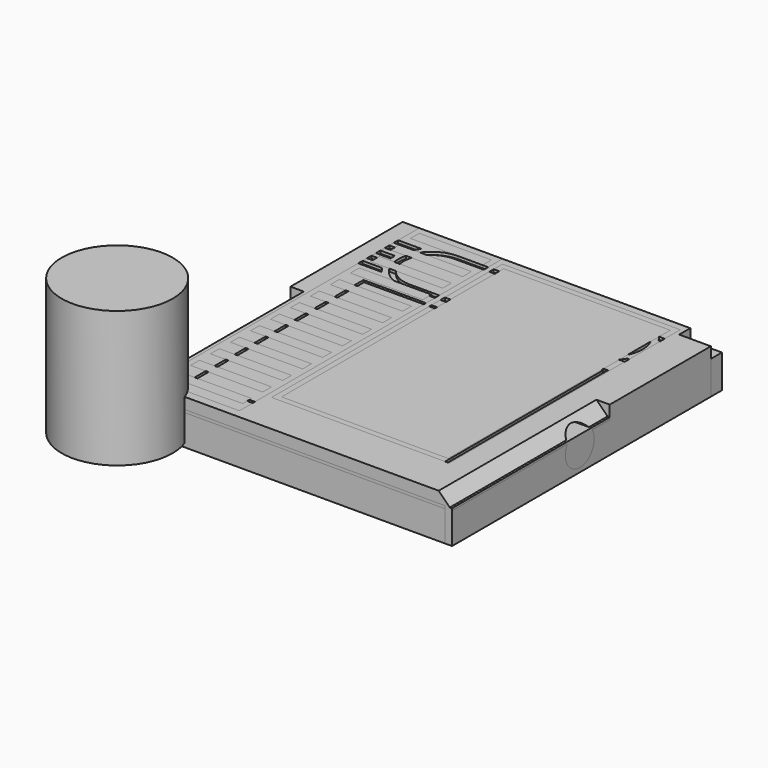
from build123d import *

# Parameters (mm, degrees)
BOX_W             = 57.5
BOX_H             = 60.75
BOX_DEPTH         = 6
BOX057_W          = 31
BOX057_H          = 9
BOX057_DEPTH      = 1
BOX058_W          = 3.25
BOX058_H          = 6.5
BOX058_DEPTH      = 1
CYLINDER005_R     = 10
CYLINDER005_DEPTH = 24.5
BOX066_W          = 13.5
BOX066_H          = 1.5
BOX066_DEPTH      = 5
BOX065_W          = 43
BOX065_H          = 38
BOX065_DEPTH      = 0.5
BOX068_W          = 44
BOX068_H          = 39
BOX068_DEPTH      = 0.5
CYLINDER006_R     = 3.25
CYLINDER006_DEPTH = 3.5
BOX070_W          = 57.5
BOX070_H          = 35.5
BOX070_DEPTH      = 2.5
CHAMFER001_SIZE   = 2.4
BOX062_W          = 5.7
BOX062_H          = 2.5
BOX062_DEPTH      = 6
BOX064_W          = 5.5
BOX064_H          = 3.5
BOX064_DEPTH      = 6
BOX063_W          = 55
BOX063_H          = 62.75
BOX063_DEPTH      = 5.5
BOX061_W          = 57.5
BOX061_H          = 60.75
BOX061_DEPTH      = 5.5
CYLINDER011_R     = 5
CYLINDER011_DEPTH = 0.5
BOX069_W          = 32
BOX069_H          = 10
BOX069_DEPTH      = 0.5
CYLINDER010_R     = 5
CYLINDER010_DEPTH = 0.5
BOX071_W          = 32
BOX071_H          = 12
BOX071_DEPTH      = 1
CYLINDER007_R     = 6
CYLINDER007_DEPTH = 1
CYLINDER012_R     = 6
CYLINDER012_DEPTH = 1
CYLINDER008_R     = 7
CYLINDER008_DEPTH = 1
BOX075_W          = 10
BOX075_H          = 1
BOX075_DEPTH      = 1
BOX074_W          = 10
BOX074_H          = 1
BOX074_DEPTH      = 1
BOX073_W          = 10
BOX073_H          = 1
BOX073_DEPTH      = 1
BOX072_W          = 10
BOX072_H          = 1
BOX072_DEPTH      = 1
BOX076_W          = 10
BOX076_H          = 1
BOX076_DEPTH      = 1
CYLINDER009_R     = 7
CYLINDER009_DEPTH = 1
BOX080_W          = 10
BOX080_H          = 1
BOX080_DEPTH      = 1
BOX079_W          = 10
BOX079_H          = 1
BOX079_DEPTH      = 1
BOX078_W          = 10
BOX078_H          = 1
BOX078_DEPTH      = 1
BOX077_W          = 10
BOX077_H          = 1
BOX077_DEPTH      = 1
BOX081_W          = 10
BOX081_H          = 1
BOX081_DEPTH      = 1
BOX082_W          = 10
BOX082_H          = 10
BOX082_DEPTH      = 10
BOX083_W          = 57.5
BOX083_H          = 25.25
BOX083_DEPTH      = 2.5
BOX067_W          = 4
BOX067_H          = 8
BOX067_DEPTH      = 6
CYLINDER013_R     = 3.25
CYLINDER013_DEPTH = 3.5
BOX002_W          = 55
BOX002_H          = 62.8
BOX002_DEPTH      = 6
BOX018_W          = 15
BOX018_H          = 53
BOX018_DEPTH      = 0.5
BOX041_W          = 32
BOX041_H          = 52
BOX041_DEPTH      = 0.5
BOX019_W          = 15
BOX019_H          = 9.25
BOX019_DEPTH      = 1.5
BOX008_W          = 57.5
BOX008_H          = 35.5
BOX008_DEPTH      = 8
CHAMFER_SIZE      = 2.4
BOX029_W          = 17
BOX029_H          = 9.25
BOX029_DEPTH      = 1.5
BOX010_W          = 10
BOX010_H          = 10
BOX010_DEPTH      = 10
BOX007_W          = 57.5
BOX007_H          = 25.25
BOX007_DEPTH      = 8
BOX085_W          = 4
BOX085_H          = 8
BOX085_DEPTH      = 6
BOX084_W          = 14.5
BOX084_H          = 1.5
BOX084_DEPTH      = 5
BOX017_W          = 30
BOX017_H          = 50
BOX017_DEPTH      = 0.5
BOX038_W          = 13
BOX038_H          = 2
BOX038_DEPTH      = 1.5
BOX035_W          = 13
BOX035_H          = 2
BOX035_DEPTH      = 1
BOX034_W          = 13
BOX034_H          = 2
BOX034_DEPTH      = 1
BOX032_W          = 13
BOX032_H          = 2
BOX032_DEPTH      = 1
BOX025_W          = 13
BOX025_H          = 2
BOX025_DEPTH      = 1
BOX022_W          = 13
BOX022_H          = 2
BOX022_DEPTH      = 1
BOX021_W          = 13
BOX021_H          = 2
BOX021_DEPTH      = 1
BOX024_W          = 13
BOX024_H          = 2
BOX024_DEPTH      = 1
BOX031_W          = 13
BOX031_H          = 2
BOX031_DEPTH      = 1
BOX023_W          = 13
BOX023_H          = 2
BOX023_DEPTH      = 1
BOX030_W          = 13
BOX030_H          = 2
BOX030_DEPTH      = 1
BOX020_W          = 13
BOX020_H          = 2
BOX020_DEPTH      = 1
BOX040_W          = 13
BOX040_H          = 2
BOX040_DEPTH      = 1.5
BOX001_W          = 5.7
BOX001_H          = 2.5
BOX001_DEPTH      = 6
BOX003_W          = 6.2
BOX003_H          = 3.5
BOX003_DEPTH      = 6


with BuildPart() as cube_outer_base:
    # Box → Box (new body)
    with BuildSketch(Plane(origin=(0, 3.5, -0.7), x_dir=(1, 0, 0), z_dir=(0, 0, 1))):
        with Locations((28.75, 30.375)):
            Rectangle(BOX_W, BOX_H)
    extrude(amount=BOX_DEPTH)


with BuildPart() as cube:
    # Box057 → Box057 (new body)
    with BuildSketch(Plane(origin=(20, 54.5, 5.3), x_dir=(1, 0, 0), z_dir=(0, 0, 1))):
        with Locations((15.5, 4.5)):
            Rectangle(BOX057_W, BOX057_H)
    extrude(amount=BOX057_DEPTH)


with BuildPart() as fusion023_front_cutter_top:
    # Box058 → Box058 (new body)
    with BuildSketch(Plane(origin=(51, 54.5, 5.3), x_dir=(1, 0, 0), z_dir=(0, 0, 1))):
        with Locations((1.625, 3.25)):
            Rectangle(BOX058_W, BOX058_H)
    extrude(amount=BOX058_DEPTH)

    # Fusion023: union Cube
    add(cube.part)


with BuildPart() as cylinder_conduit_left:
    # Cylinder005 → Cylinder005 (new body)
    with BuildSketch(Plane.XY):
        Circle(CYLINDER005_R)
    extrude(amount=CYLINDER005_DEPTH)


with BuildPart() as cube_sd_card_cover:
    # Box066 → Box066 (new body)
    with BuildSketch(Plane(origin=(19.5, 62.75, -5.7), x_dir=(1, 0, 0), z_dir=(0, 0, 1))):
        with Locations((6.75, 0.75)):
            Rectangle(BOX066_W, BOX066_H)
    extrude(amount=BOX066_DEPTH)


with BuildPart() as box065:
    # Box065 → Box065 (new body)
    with BuildSketch(Plane(origin=(7.25, 8.5, 6.8), x_dir=(1, 0, 0), z_dir=(0, 0, 1))):
        with Locations((21.5, 19)):
            Rectangle(BOX065_W, BOX065_H)
    extrude(amount=BOX065_DEPTH)


with BuildPart() as box068:
    # Box068 → Box068 (new body)
    with BuildSketch(Plane(origin=(6.75, 8, 6.8), x_dir=(1, 0, 0), z_dir=(0, 0, 1))):
        with Locations((22, 19.5)):
            Rectangle(BOX068_W, BOX068_H)
    extrude(amount=BOX068_DEPTH)


with BuildPart() as cylinder_magnet:
    # Cylinder006 → Cylinder006 (new body)
    with BuildSketch(Plane(origin=(54, 32.25, 3.3), x_dir=(0, 0, -1), z_dir=(1, 0, 0))):
        Circle(CYLINDER006_R)
    extrude(amount=CYLINDER006_DEPTH)


with BuildPart() as chamfer001:
    # Box070 → Box070 (new body)
    with BuildSketch(Plane(origin=(0, 3.5, 4.8), x_dir=(1, 0, 0), z_dir=(0, 0, 1))):
        with Locations((28.75, 17.75)):
            Rectangle(BOX070_W, BOX070_H)
    extrude(amount=BOX070_DEPTH)

    # Chamfer001
    chamfer001_edges = [chamfer001.edges().sort_by_distance(p)[0] for p in [
        (0, 21.25, 7.3),
        (57.5, 21.25, 7.3),
    ]]
    chamfer(chamfer001_edges, length=CHAMFER001_SIZE)


with BuildPart() as box062:
    # Box062 → Box062 (new body)
    with BuildSketch(Plane(origin=(51.8, 61.75, -0.7), x_dir=(1, 0, 0), z_dir=(0, 0, 1))):
        with Locations((2.85, 1.25)):
            Rectangle(BOX062_W, BOX062_H)
    extrude(amount=BOX062_DEPTH)


with BuildPart() as box064:
    # Box064 → Box064 (new body)
    with BuildSketch(Plane(origin=(50.8, 60.75, -0.7), x_dir=(1, 0, 0), z_dir=(0, 0, 1))):
        with Locations((2.75, 1.75)):
            Rectangle(BOX064_W, BOX064_H)
    extrude(amount=BOX064_DEPTH)


with BuildPart() as box063:
    # Box063 → Box063 (new body)
    with BuildSketch(Plane(origin=(1.25, 0, -0.7), x_dir=(1, 0, 0), z_dir=(0, 0, 1))):
        with Locations((27.5, 31.375)):
            Rectangle(BOX063_W, BOX063_H)
    extrude(amount=BOX063_DEPTH)


with BuildPart() as cut024:
    # Box061 → Box061 (new body)
    with BuildSketch(Plane(origin=(0, 3.5, -0.7), x_dir=(1, 0, 0), z_dir=(0, 0, 1))):
        with Locations((28.75, 30.375)):
            Rectangle(BOX061_W, BOX061_H)
    extrude(amount=BOX061_DEPTH)

    # Cut030: cut Box063
    add(box063.part, mode=Mode.SUBTRACT)

    # Fusion030: union Box064
    add(box064.part)

    # Cut031: cut Box062
    add(box062.part, mode=Mode.SUBTRACT)


with BuildPart() as cylinder002_right_nintendo_inner:
    # Cylinder011 → Cylinder011 (new body)
    with BuildSketch(Plane(origin=(44.6, 55, 6.8), x_dir=(1, 0, 0), z_dir=(0, 0, 1))):
        Circle(CYLINDER011_R)
    extrude(amount=CYLINDER011_DEPTH)


with BuildPart() as cube_middle_nintendo_inner:
    # Box069 → Box069 (new body)
    with BuildSketch(Plane(origin=(12.6, 50, 6.8), x_dir=(1, 0, 0), z_dir=(0, 0, 1))):
        with Locations((16, 5)):
            Rectangle(BOX069_W, BOX069_H)
    extrude(amount=BOX069_DEPTH)


with BuildPart() as fusion033:
    # Cylinder010 → Cylinder010 (new body)
    with BuildSketch(Plane(origin=(12.6, 55, 6.8), x_dir=(1, 0, 0), z_dir=(0, 0, 1))):
        Circle(CYLINDER010_R)
    extrude(amount=CYLINDER010_DEPTH)

    # Fusion033: union Cylinder002(right_nintendo_inner), Cube(middle_nintendo_inner)
    add(cylinder002_right_nintendo_inner.part)
    add(cube_middle_nintendo_inner.part)


with BuildPart() as cube_middle_nintendo_outer:
    # Box071 → Box071 (new body)
    with BuildSketch(Plane(origin=(12.6, 49, 6.8), x_dir=(1, 0, 0), z_dir=(0, 0, 1))):
        with Locations((16, 6)):
            Rectangle(BOX071_W, BOX071_H)
    extrude(amount=BOX071_DEPTH)


with BuildPart() as cylinder002_right_nintendo_outer:
    # Cylinder007 → Cylinder007 (new body)
    with BuildSketch(Plane(origin=(44.6, 55, 6.8), x_dir=(1, 0, 0), z_dir=(0, 0, 1))):
        Circle(CYLINDER007_R)
    extrude(amount=CYLINDER007_DEPTH)


with BuildPart() as cylinder001_left_nintendo_outer:
    # Cylinder012 → Cylinder012 (new body)
    with BuildSketch(Plane(origin=(12.6, 55, 6.8), x_dir=(1, 0, 0), z_dir=(0, 0, 1))):
        Circle(CYLINDER012_R)
    extrude(amount=CYLINDER012_DEPTH)


with BuildPart() as cylinder001_left_nintendo_fin_cut:
    # Cylinder008 → Cylinder008 (new body)
    with BuildSketch(Plane(origin=(12.6, 55, 6.8), x_dir=(1, 0, 0), z_dir=(0, 0, 1))):
        Circle(CYLINDER008_R)
    extrude(amount=CYLINDER008_DEPTH)


with BuildPart() as box075:
    # Box075 → Box075 (new body)
    with BuildSketch(Plane(origin=(0, 54.5, 6.8), x_dir=(1, 0, 0), z_dir=(0, 0, 1))):
        with Locations((5, 0.5)):
            Rectangle(BOX075_W, BOX075_H)
    extrude(amount=BOX075_DEPTH)


with BuildPart() as box074:
    # Box074 → Box074 (new body)
    with BuildSketch(Plane(origin=(0, 58.5, 6.8), x_dir=(1, 0, 0), z_dir=(0, 0, 1))):
        with Locations((5, 0.5)):
            Rectangle(BOX074_W, BOX074_H)
    extrude(amount=BOX074_DEPTH)


with BuildPart() as box073:
    # Box073 → Box073 (new body)
    with BuildSketch(Plane(origin=(0, 56.5, 6.8), x_dir=(1, 0, 0), z_dir=(0, 0, 1))):
        with Locations((5, 0.5)):
            Rectangle(BOX073_W, BOX073_H)
    extrude(amount=BOX073_DEPTH)


with BuildPart() as box072:
    # Box072 → Box072 (new body)
    with BuildSketch(Plane(origin=(0, 52.5, 6.8), x_dir=(1, 0, 0), z_dir=(0, 0, 1))):
        with Locations((5, 0.5)):
            Rectangle(BOX072_W, BOX072_H)
    extrude(amount=BOX072_DEPTH)


with BuildPart() as cut009:
    # Box076 → Box076 (new body)
    with BuildSketch(Plane(origin=(0, 50.5, 6.8), x_dir=(1, 0, 0), z_dir=(0, 0, 1))):
        with Locations((5, 0.5)):
            Rectangle(BOX076_W, BOX076_H)
    extrude(amount=BOX076_DEPTH)

    # Fusion004: union Box075, Box074, Box073, Box072
    add(box075.part)
    add(box074.part)
    add(box073.part)
    add(box072.part)

    # Cut009: cut Cylinder001(left_nintendo_fin_cut)
    add(cylinder001_left_nintendo_fin_cut.part, mode=Mode.SUBTRACT)


with BuildPart() as cylinder002_right_nintendo_fin_cut:
    # Cylinder009 → Cylinder009 (new body)
    with BuildSketch(Plane(origin=(44.6, 55, 6.8), x_dir=(1, 0, 0), z_dir=(0, 0, 1))):
        Circle(CYLINDER009_R)
    extrude(amount=CYLINDER009_DEPTH)


with BuildPart() as box080:
    # Box080 → Box080 (new body)
    with BuildSketch(Plane(origin=(47.5, 54.5, 6.8), x_dir=(1, 0, 0), z_dir=(0, 0, 1))):
        with Locations((5, 0.5)):
            Rectangle(BOX080_W, BOX080_H)
    extrude(amount=BOX080_DEPTH)


with BuildPart() as box079:
    # Box079 → Box079 (new body)
    with BuildSketch(Plane(origin=(47.5, 52.5, 6.8), x_dir=(1, 0, 0), z_dir=(0, 0, 1))):
        with Locations((5, 0.5)):
            Rectangle(BOX079_W, BOX079_H)
    extrude(amount=BOX079_DEPTH)


with BuildPart() as box078:
    # Box078 → Box078 (new body)
    with BuildSketch(Plane(origin=(47.5, 56.5, 6.8), x_dir=(1, 0, 0), z_dir=(0, 0, 1))):
        with Locations((5, 0.5)):
            Rectangle(BOX078_W, BOX078_H)
    extrude(amount=BOX078_DEPTH)


with BuildPart() as box077:
    # Box077 → Box077 (new body)
    with BuildSketch(Plane(origin=(47.5, 58.5, 6.8), x_dir=(1, 0, 0), z_dir=(0, 0, 1))):
        with Locations((5, 0.5)):
            Rectangle(BOX077_W, BOX077_H)
    extrude(amount=BOX077_DEPTH)


with BuildPart() as cut032:
    # Box081 → Box081 (new body)
    with BuildSketch(Plane(origin=(47.5, 50.5, 6.8), x_dir=(1, 0, 0), z_dir=(0, 0, 1))):
        with Locations((5, 0.5)):
            Rectangle(BOX081_W, BOX081_H)
    extrude(amount=BOX081_DEPTH)

    # Fusion034: union Box080, Box079, Box078, Box077
    add(box080.part)
    add(box079.part)
    add(box078.part)
    add(box077.part)

    # Cut032: cut Cylinder002(right_nintendo_fin_cut)
    add(cylinder002_right_nintendo_fin_cut.part, mode=Mode.SUBTRACT)


with BuildPart() as box082:
    # Box082 → Box082 (new body)
    with BuildSketch(Plane(origin=(51.8, 61.75, 0), x_dir=(1, 0, 0), z_dir=(0, 0, 1))):
        with Locations((5, 5)):
            Rectangle(BOX082_W, BOX082_H)
    extrude(amount=BOX082_DEPTH)


with BuildPart() as cut014:
    # Box083 → Box083 (new body)
    with BuildSketch(Plane(origin=(0, 39, 4.8), x_dir=(1, 0, 0), z_dir=(0, 0, 1))):
        with Locations((28.75, 12.625)):
            Rectangle(BOX083_W, BOX083_H)
    extrude(amount=BOX083_DEPTH)

    # Cut033: cut Box082
    add(box082.part, mode=Mode.SUBTRACT)

    # Cut010: cut Cut032
    add(cut032.part, mode=Mode.SUBTRACT)

    # Cut011: cut Cut009
    add(cut009.part, mode=Mode.SUBTRACT)

    # Cut012: cut Cylinder001(left_nintendo_outer)
    add(cylinder001_left_nintendo_outer.part, mode=Mode.SUBTRACT)

    # Cut013: cut Cylinder002(right_nintendo_outer)
    add(cylinder002_right_nintendo_outer.part, mode=Mode.SUBTRACT)

    # Cut014: cut Cube(middle_nintendo_outer)
    add(cube_middle_nintendo_outer.part, mode=Mode.SUBTRACT)


with BuildPart() as fusion037:
    # Box067 → Box067 (new body)
    with BuildSketch(Plane(origin=(52.25, 28.25, -0.7), x_dir=(1, 0, 0), z_dir=(0, 0, 1))):
        with Locations((2, 4)):
            Rectangle(BOX067_W, BOX067_H)
    extrude(amount=BOX067_DEPTH)

    # Fusion035: union Chamfer001, Cut024, Fusion033, Cut014
    add(chamfer001.part)
    add(cut024.part)
    add(fusion033.part)
    add(cut014.part)

    # Cut034: cut Cylinder(magnet)
    add(cylinder_magnet.part, mode=Mode.SUBTRACT)

    # Cut035: cut Box068
    add(box068.part, mode=Mode.SUBTRACT)

    # Fusion036: union Box065
    add(box065.part)

    # Fusion037: union Cube(sd_card_cover)
    add(cube_sd_card_cover.part)


with BuildPart() as cylinder013:
    # Cylinder013 → Cylinder013 (new body)
    with BuildSketch(Plane(origin=(54, 32.25, 3.3), x_dir=(0, 0, -1), z_dir=(1, 0, 0))):
        Circle(CYLINDER013_R)
    extrude(amount=CYLINDER013_DEPTH)


with BuildPart() as cube_inner_base:
    # Box002 → Box002 (new body)
    with BuildSketch(Plane(origin=(1.25, 0, -0.7), x_dir=(1, 0, 0), z_dir=(0, 0, 1))):
        with Locations((27.5, 31.4)):
            Rectangle(BOX002_W, BOX002_H)
    extrude(amount=BOX002_DEPTH)


with BuildPart() as cube_cube_strips:
    # Box018 → Box018 (new body)
    with BuildSketch(Plane(origin=(3, 5, 6.8), x_dir=(1, 0, 0), z_dir=(0, 0, 1))):
        with Locations((7.5, 26.5)):
            Rectangle(BOX018_W, BOX018_H)
    extrude(amount=BOX018_DEPTH)


with BuildPart() as obj1:
    # Box041 → Box041 (new body)
    with BuildSketch(Plane(origin=(19, 11, 6.8), x_dir=(1, 0, 0), z_dir=(0, 0, 1))):
        with Locations((16, 26)):
            Rectangle(BOX041_W, BOX041_H)
    extrude(amount=BOX041_DEPTH)


with BuildPart() as fusion041:
    # Box019 → Box019 (new body)
    with BuildSketch(Plane(origin=(3, 55, 5.8), x_dir=(1, 0, 0), z_dir=(0, 0, 1))):
        with Locations((7.5, 4.625)):
            Rectangle(BOX019_W, BOX019_H)
    extrude(amount=BOX019_DEPTH)

    # Fusion041: union Cube(cube_strips), obj1)
    add(cube_cube_strips.part)
    add(obj1.part)


with BuildPart() as chamfer_body:
    # Box008 → Box008 (new body)
    with BuildSketch(Plane(origin=(0, 3.5, -0.7), x_dir=(1, 0, 0), z_dir=(0, 0, 1))):
        with Locations((28.75, 17.75)):
            Rectangle(BOX008_W, BOX008_H)
    extrude(amount=BOX008_DEPTH)

    # Chamfer
    chamfer_edges = [chamfer_body.edges().sort_by_distance(p)[0] for p in [
        (0, 21.25, 7.3),
        (57.5, 21.25, 7.3),
    ]]
    chamfer(chamfer_edges, length=CHAMFER_SIZE)


with BuildPart() as cube_cube_strip_top_outer:
    # Box029 → Box029 (new body)
    with BuildSketch(Plane(origin=(2, 55, 5.8), x_dir=(1, 0, 0), z_dir=(0, 0, 1))):
        with Locations((8.5, 4.625)):
            Rectangle(BOX029_W, BOX029_H)
    extrude(amount=BOX029_DEPTH)


with BuildPart() as cube_top_corner_cut:
    # Box010 → Box010 (new body)
    with BuildSketch(Plane(origin=(51.8, 61.75, -0.7), x_dir=(1, 0, 0), z_dir=(0, 0, 1))):
        with Locations((5, 5)):
            Rectangle(BOX010_W, BOX010_H)
    extrude(amount=BOX010_DEPTH)


with BuildPart() as cut036:
    # Box007 → Box007 (new body)
    with BuildSketch(Plane(origin=(0, 39, -0.7), x_dir=(1, 0, 0), z_dir=(0, 0, 1))):
        with Locations((28.75, 12.625)):
            Rectangle(BOX007_W, BOX007_H)
    extrude(amount=BOX007_DEPTH)

    # Cut006: cut Cube(top_corner_cut)
    add(cube_top_corner_cut.part, mode=Mode.SUBTRACT)

    # Fusion003: union Cube(cube_strip_top_outer)
    add(cube_cube_strip_top_outer.part)

    # Fusion: union Chamfer body
    add(chamfer_body.part)

    # Cut: cut Fusion041
    add(fusion041.part, mode=Mode.SUBTRACT)

    # Cut036: cut Cube(inner_base)
    add(cube_inner_base.part, mode=Mode.SUBTRACT)


with BuildPart() as box085:
    # Box085 → Box085 (new body)
    with BuildSketch(Plane(origin=(52.25, 28.25, -0.7), x_dir=(1, 0, 0), z_dir=(0, 0, 1))):
        with Locations((2, 4)):
            Rectangle(BOX085_W, BOX085_H)
    extrude(amount=BOX085_DEPTH)


with BuildPart() as box084:
    # Box084 → Box084 (new body)
    with BuildSketch(Plane(origin=(18.5, 62.75, -5.7), x_dir=(1, 0, 0), z_dir=(0, 0, 1))):
        with Locations((7.25, 0.75)):
            Rectangle(BOX084_W, BOX084_H)
    extrude(amount=BOX084_DEPTH)


with BuildPart() as obj2:
    # Box017 → Box017 (new body)
    with BuildSketch(Plane(origin=(20, 12, 6.8), x_dir=(1, 0, 0), z_dir=(0, 0, 1))):
        with Locations((15, 25)):
            Rectangle(BOX017_W, BOX017_H)
    extrude(amount=BOX017_DEPTH)


with BuildPart() as box038:
    # Box038 → Box038 (new body)
    with BuildSketch(Plane(origin=(4, 56.5, 5.8), x_dir=(1, 0, 0), z_dir=(0, 0, 1))):
        with Locations((6.5, 1)):
            Rectangle(BOX038_W, BOX038_H)
    extrude(amount=BOX038_DEPTH)


with BuildPart() as box035:
    # Box035 → Box035 (new body)
    with BuildSketch(Plane(origin=(4, 52, 6.3), x_dir=(1, 0, 0), z_dir=(0, 0, 1))):
        with Locations((6.5, 1)):
            Rectangle(BOX035_W, BOX035_H)
    extrude(amount=BOX035_DEPTH)


with BuildPart() as box034:
    # Box034 → Box034 (new body)
    with BuildSketch(Plane(origin=(4, 47.5, 6.3), x_dir=(1, 0, 0), z_dir=(0, 0, 1))):
        with Locations((6.5, 1)):
            Rectangle(BOX034_W, BOX034_H)
    extrude(amount=BOX034_DEPTH)


with BuildPart() as box032:
    # Box032 → Box032 (new body)
    with BuildSketch(Plane(origin=(4, 43, 6.3), x_dir=(1, 0, 0), z_dir=(0, 0, 1))):
        with Locations((6.5, 1)):
            Rectangle(BOX032_W, BOX032_H)
    extrude(amount=BOX032_DEPTH)


with BuildPart() as box025:
    # Box025 → Box025 (new body)
    with BuildSketch(Plane(origin=(4, 29.5, 6.3), x_dir=(1, 0, 0), z_dir=(0, 0, 1))):
        with Locations((6.5, 1)):
            Rectangle(BOX025_W, BOX025_H)
    extrude(amount=BOX025_DEPTH)


with BuildPart() as box022:
    # Box022 → Box022 (new body)
    with BuildSketch(Plane(origin=(4, 16, 6.3), x_dir=(1, 0, 0), z_dir=(0, 0, 1))):
        with Locations((6.5, 1)):
            Rectangle(BOX022_W, BOX022_H)
    extrude(amount=BOX022_DEPTH)


with BuildPart() as box021:
    # Box021 → Box021 (new body)
    with BuildSketch(Plane(origin=(4, 11.5, 6.3), x_dir=(1, 0, 0), z_dir=(0, 0, 1))):
        with Locations((6.5, 1)):
            Rectangle(BOX021_W, BOX021_H)
    extrude(amount=BOX021_DEPTH)


with BuildPart() as box024:
    # Box024 → Box024 (new body)
    with BuildSketch(Plane(origin=(4, 25, 6.3), x_dir=(1, 0, 0), z_dir=(0, 0, 1))):
        with Locations((6.5, 1)):
            Rectangle(BOX024_W, BOX024_H)
    extrude(amount=BOX024_DEPTH)


with BuildPart() as box031:
    # Box031 → Box031 (new body)
    with BuildSketch(Plane(origin=(4, 38.5, 6.3), x_dir=(1, 0, 0), z_dir=(0, 0, 1))):
        with Locations((6.5, 1)):
            Rectangle(BOX031_W, BOX031_H)
    extrude(amount=BOX031_DEPTH)


with BuildPart() as box023:
    # Box023 → Box023 (new body)
    with BuildSketch(Plane(origin=(4, 20.5, 6.3), x_dir=(1, 0, 0), z_dir=(0, 0, 1))):
        with Locations((6.5, 1)):
            Rectangle(BOX023_W, BOX023_H)
    extrude(amount=BOX023_DEPTH)


with BuildPart() as box030:
    # Box030 → Box030 (new body)
    with BuildSketch(Plane(origin=(4, 34, 6.3), x_dir=(1, 0, 0), z_dir=(0, 0, 1))):
        with Locations((6.5, 1)):
            Rectangle(BOX030_W, BOX030_H)
    extrude(amount=BOX030_DEPTH)


with BuildPart() as cube_ladders:
    # Box020 → Box020 (new body)
    with BuildSketch(Plane(origin=(4, 7, 6.3), x_dir=(1, 0, 0), z_dir=(0, 0, 1))):
        with Locations((6.5, 1)):
            Rectangle(BOX020_W, BOX020_H)
    extrude(amount=BOX020_DEPTH)


with BuildPart() as fusion006_ladder:
    # Box040 → Box040 (new body)
    with BuildSketch(Plane(origin=(4, 61, 5.8), x_dir=(1, 0, 0), z_dir=(0, 0, 1))):
        with Locations((6.5, 1)):
            Rectangle(BOX040_W, BOX040_H)
    extrude(amount=BOX040_DEPTH)

    # Fusion006: union Box038, Box035, Box034, Box032, Box025, Box022, Box021, Box024, Box031, Box023, Box030, Cube(ladders)
    add(box038.part)
    add(box035.part)
    add(box034.part)
    add(box032.part)
    add(box025.part)
    add(box022.part)
    add(box021.part)
    add(box024.part)
    add(box031.part)
    add(box023.part)
    add(box030.part)
    add(cube_ladders.part)


with BuildPart() as cube_corner_inner:
    # Box001 → Box001 (new body)
    with BuildSketch(Plane(origin=(51.8, 61.75, -0.7), x_dir=(1, 0, 0), z_dir=(0, 0, 1))):
        with Locations((2.85, 1.25)):
            Rectangle(BOX001_W, BOX001_H)
    extrude(amount=BOX001_DEPTH)


with BuildPart() as cut038:
    # Box003 → Box003 (new body)
    with BuildSketch(Plane(origin=(50.8, 60.75, -0.7), x_dir=(1, 0, 0), z_dir=(0, 0, 1))):
        with Locations((3.1, 1.75)):
            Rectangle(BOX003_W, BOX003_H)
    extrude(amount=BOX003_DEPTH)

    # Cut037: cut Cube(corner_inner)
    add(cube_corner_inner.part, mode=Mode.SUBTRACT)

    # Fusion042: union Cut036, Box085, Box084, obj2), Fusion006(ladder)
    add(cut036.part)
    add(box085.part)
    add(box084.part)
    add(obj2.part)
    add(fusion006_ladder.part)

    # Cut038: cut Cylinder013
    add(cylinder013.part, mode=Mode.SUBTRACT)


solid = Compound([cube_outer_base.part, fusion023_front_cutter_top.part, cylinder_conduit_left.part, fusion037.part, cut038.part])
